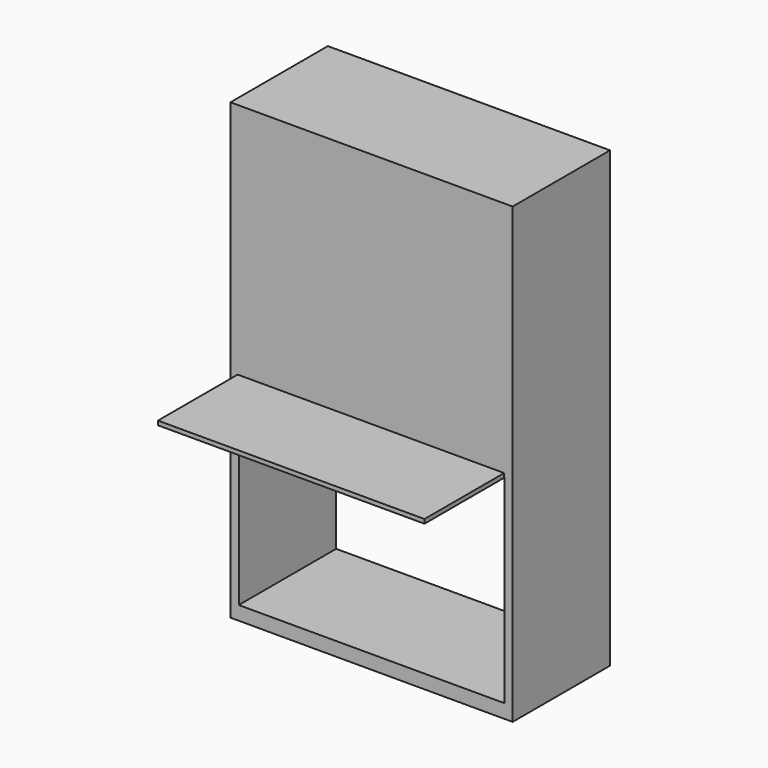
from build123d import *

# Parameters (mm, degrees)
F0_W      = 1295.4
F0_H      = 2082.8
F1_DEPTH  = 558.8
F3_W      = 1219.2
F3_H      = 914.4
F9_DEPTH  = 558.8
F10_W     = 1223.48994
F10_H     = 19.100845
F11_DEPTH = 457.2


with BuildPart() as f1:
    # F0 (on Front) → F1 (new body)
    with BuildSketch(Plane.XZ):
        with Locations((80.820927, 6.07419)):
            Rectangle(F0_W, F0_H)
    extrude(amount=-F1_DEPTH)

    # F3 (on face) → F9 (cut, through all)
    with BuildSketch(Plane.XZ):
        with Locations((80.820927, -514.62581)):
            Rectangle(F3_W, F3_H)
    extrude(amount=-F9_DEPTH, mode=Mode.SUBTRACT)

    # F10 (on face) → F11 (join)
    with BuildSketch(Plane.XZ):
        with Locations((77.789873, -51.771193)):
            Rectangle(F10_W, F10_H)
    extrude(amount=F11_DEPTH)


solid = f1.part
